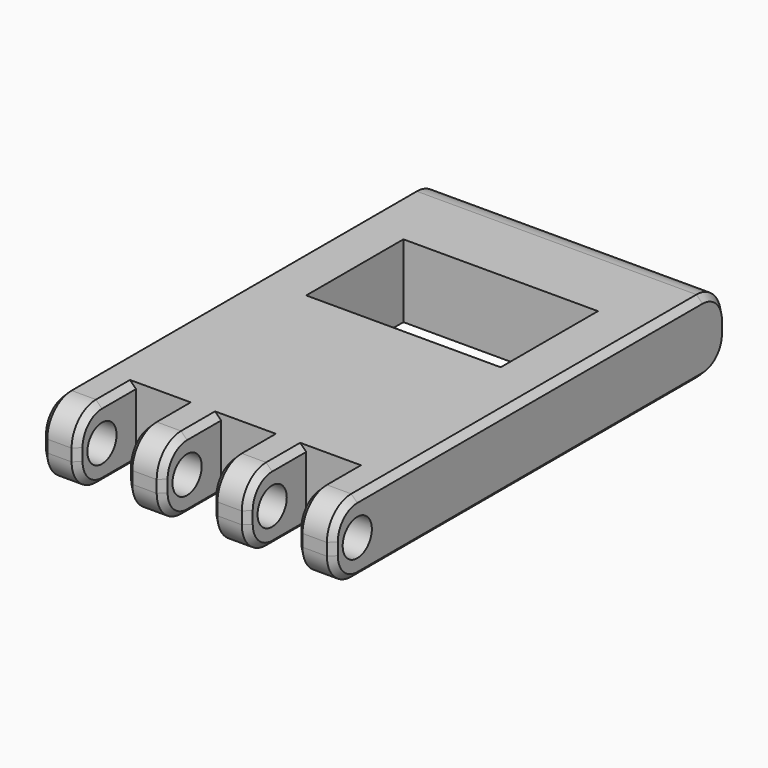
from build123d import *

# Parameters (mm, degrees)
F0_W     = 24
F0_H     = 40.5
F1_DEPTH = 3
F2_R     = 1.5
F3_DEPTH = 25
F4_R     = 2.5
F5_W     = 4
F5_H     = 6
F6_DEPTH = 12.5
F7_W     = 16
F7_H     = 10
F8_DEPTH = 12.5
F9_SIZE  = 0.5


with BuildPart() as f1:
    # F0 (on Top) → F1 (new body, symmetric)
    with BuildSketch(Plane.XY):
        Rectangle(F0_W, F0_H)
    extrude(amount=F1_DEPTH, both=True)

    # F2 (on Right) → F3 (cut, symmetric)
    with BuildSketch(Plane.YZ):
        with Locations((-17.75, 0)):
            Circle(F2_R)
    extrude(amount=F3_DEPTH, both=True, mode=Mode.SUBTRACT)

    # F4
    f4_edges = [f1.edges().sort_by_distance(p)[0] for p in [
        (0, -20.25, 3),
        (0, -20.25, -3),
        (0, 20.25, 3),
        (0, 20.25, -3),
    ]]
    fillet(f4_edges, radius=F4_R)

    # F5 (on Top) → F6 (cut, symmetric)
    with BuildSketch(Plane.XY):
        with Locations((0, -17.25)):
            Rectangle(F5_W, F5_H)
        with Locations((-7, -17.25)):
            Rectangle(F5_W, F5_H)
        with Locations((7, -17.25)):
            Rectangle(F5_W, F5_H)
    extrude(amount=F6_DEPTH, both=True, mode=Mode.SUBTRACT)

    # F7 (on Top) → F8 (cut, symmetric)
    with BuildSketch(Plane.XY):
        with Locations((0, 7)):
            Rectangle(F7_W, F7_H)
    extrude(amount=F8_DEPTH, both=True, mode=Mode.SUBTRACT)

    # F9
    f9_edges = [f1.edges().sort_by_distance(p)[0] for p in [
        (12, 0, -3),
        (9, -19.517767, -2.267767),
        (5, -19.517767, -2.267767),
        (2, -19.517767, -2.267767),
        (-2, -19.517767, -2.267767),
        (-7, -14.25, -3),
        (-5, -19.517767, -2.267767),
        (-9, -19.517767, -2.267767),
        (-12, -19.517767, -2.267767),
        (0, -14.25, -3),
        (7, -14.25, -3),
    ]]
    chamfer(f9_edges, length=F9_SIZE)


solid = f1.part
